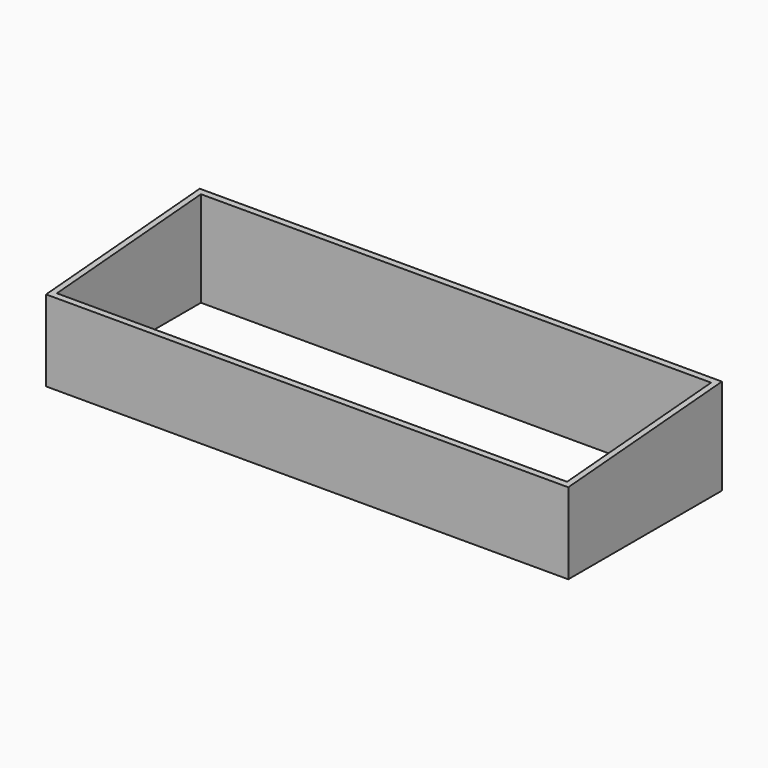
from build123d import *

# Parameters (mm, degrees)
F0_W     = 17400
F0_H     = 6400
F0_W_2   = 17000
F0_H_2   = 6000
F1_DEPTH = 3200
F3_DEPTH = 17400.001


with BuildPart() as f1:
    # F0 (on Top) → F1 (new body)
    with BuildSketch(Plane.XY):
        Rectangle(F0_W, F0_H)
        Rectangle(F0_W_2, F0_H_2, mode=Mode.SUBTRACT)
    extrude(amount=F1_DEPTH)

    # F2 (on face) → F3 (cut, through all)
    with BuildSketch(Plane(origin=(-8700, 0, 0), x_dir=(0, -1, 0), z_dir=(-1, 0, 0))):
        Polygon((-3200, 3200), (3200, 2700), (3200, 3200), align=None)
    extrude(amount=-F3_DEPTH, mode=Mode.SUBTRACT)


solid = f1.part
